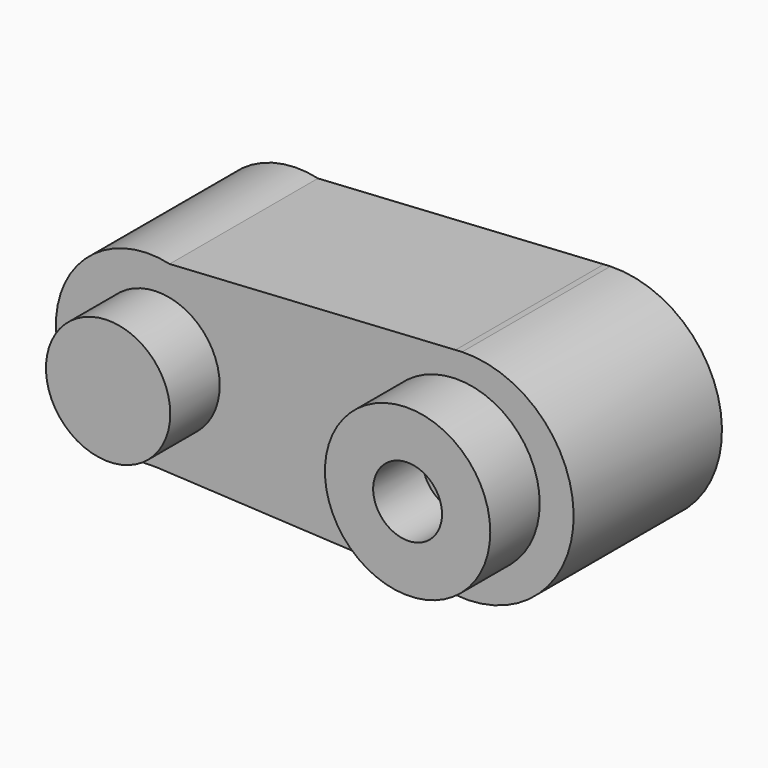
from build123d import *

# Parameters (mm, degrees)
F0_R     = 13.8564410405
F0_R_2   = 7.9335708136
F1_DEPTH = 76.2
F2_R     = 33.9802249626
F2_R_2   = 14.1455825801
F2_R_3   = 25.5416538566
F2_R_4   = 12.1426988136
F3_DEPTH = 25.4


with BuildPart() as f1:
    # F0 (on Front) → F1 (new body)
    with BuildSketch(Plane.XZ):
        with BuildLine():
            ThreePointArc((-59.4946986193, 37.2269406482), (-38.1608837646, 23.7968182359), (-29.8415516936, 0))
            ThreePointArc((-29.8415516936, 0), (-39.9941604937, -25.9319362544), (-65.0545408793, -38.0776399509))
            Line((-65.0545408793, -38.0776399509), (56.5470179912, -44.1702975004))
            ThreePointArc((56.5470179912, -44.1702975004), (17.5429722931, 0.730808762), (58.0001988788, 44.3271129792))
            Line((58.0001988788, 44.3271129792), (-59.4946986193, 37.2269406482))
        make_face()
        with BuildLine():
            ThreePointArc((-65.0545408793, -38.0776399509), (-39.9941604937, -25.9319362544), (-29.8415516936, 0))
            ThreePointArc((-29.8415516936, 0), (-38.1608837646, 23.7968182359), (-59.4946986193, 37.2269406482))
            ThreePointArc((-59.4946986193, 37.2269406482), (-106.1262010087, 2.8122737802), (-65.0545408793, -38.0776399509))
        make_face()
        with Locations((-68.0357143283, 0)):
            Circle(F0_R, mode=Mode.SUBTRACT)
        with Locations((-68.0357143283, 0)):
            Circle(F0_R)
        with BuildLine():
            Line((60.7296311594, 44.4920515422), (58.0001988788, 44.3271129792))
            ThreePointArc((58.0001988788, 44.3271129792), (17.5429722931, 0.730808762), (56.5470179912, -44.1702975004))
            Line((56.5470179912, -44.1702975004), (63.1074830218, -44.4989994279))
            ThreePointArc((63.1074830218, -44.4989994279), (93.8952032722, -31.0978159093), (106.5601661062, 0))
            ThreePointArc((106.5601661062, 0), (93.0531996585, 31.9373628527), (60.7296311594, 44.4920515422))
        make_face()
        with Locations((62.0485693216, 0)):
            Circle(F0_R_2, mode=Mode.SUBTRACT)
        with Locations((62.0485693216, 0)):
            Circle(F0_R_2)
    extrude(amount=F1_DEPTH)

    # F2 (on face) → F3 (join)
    with BuildSketch(Plane.XZ.offset(76.2)):
        with Locations((58.6326830089, 0)):
            Circle(F2_R)
        with Locations((58.6326830089, 0)):
            Circle(F2_R_2, mode=Mode.SUBTRACT)
        with Locations((-64.4596219063, 0)):
            Circle(F2_R_3)
        with Locations((-64.4596219063, 0)):
            Circle(F2_R_4, mode=Mode.SUBTRACT)
        with Locations((-64.4596219063, 0)):
            Circle(F2_R_4)
    extrude(amount=F3_DEPTH)


solid = f1.part
